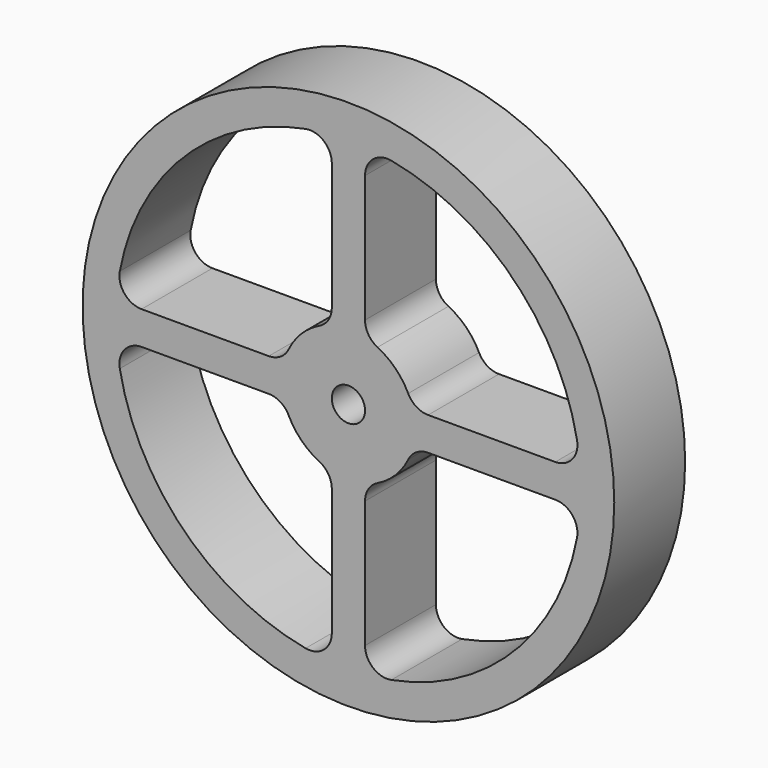
from build123d import *

# Parameters (mm, degrees)
F0_R     = 76.2
F0_R_2   = 4.7625
F1_DEPTH = 25.4
F2_R     = 6.35


with BuildPart() as f1:
    # F0 (on Front) → F1 (new body)
    with BuildSketch(Plane.XZ):
        Circle(F0_R)
        with BuildLine():
            ThreePointArc((66.504693, 4.7625), (66.63241, 2.382772), (66.675, 0))
            ThreePointArc((66.675, 0), (66.63241, -2.382772), (66.504693, -4.7625))
            ThreePointArc((66.504693, -4.7625), (47.146345, -47.146345), (4.7625, -66.504693))
            ThreePointArc((4.7625, -66.504693), (0, -66.675), (-4.7625, -66.504693))
            ThreePointArc((-4.7625, -66.504693), (-47.146345, -47.146345), (-66.504693, -4.7625))
            ThreePointArc((-66.504693, -4.7625), (-66.675, 0), (-66.504693, 4.7625))
            ThreePointArc((-66.504693, 4.7625), (-47.146345, 47.146345), (-4.7625, 66.504693))
            ThreePointArc((-4.7625, 66.504693), (0, 66.675), (4.7625, 66.504693))
            ThreePointArc((4.7625, 66.504693), (47.146345, 47.146345), (66.504693, 4.7625))
        make_face(mode=Mode.SUBTRACT)
        with BuildLine():
            Line((4.7625, 18.445083), (4.7625, 66.504693))
            ThreePointArc((4.7625, 66.504693), (0, 66.675), (-4.7625, 66.504693))
            Line((-4.7625, 66.504693), (-4.7625, 18.445083))
            ThreePointArc((-4.7625, 18.445083), (0, 19.05), (4.7625, 18.445083))
        make_face()
        with BuildLine():
            ThreePointArc((66.504693, -4.7625), (66.63241, -2.382772), (66.675, 0))
            ThreePointArc((66.675, 0), (66.63241, 2.382772), (66.504693, 4.7625))
            Line((66.504693, 4.7625), (18.445083, 4.7625))
            ThreePointArc((18.445083, 4.7625), (18.898166, 2.400382), (19.05, 0))
            ThreePointArc((19.05, 0), (18.898166, -2.400382), (18.445083, -4.7625))
            Line((18.445083, -4.7625), (66.504693, -4.7625))
        make_face()
        with BuildLine():
            ThreePointArc((19.05, 0), (18.898166, 2.400382), (18.445083, 4.7625))
            ThreePointArc((18.445083, 4.7625), (13.470384, 13.470384), (4.7625, 18.445083))
            ThreePointArc((4.7625, 18.445083), (0, 19.05), (-4.7625, 18.445083))
            ThreePointArc((-4.7625, 18.445083), (-13.470384, 13.470384), (-18.445083, 4.7625))
            ThreePointArc((-18.445083, 4.7625), (-19.05, 0), (-18.445083, -4.7625))
            ThreePointArc((-18.445083, -4.7625), (-13.470384, -13.470384), (-4.7625, -18.445083))
            ThreePointArc((-4.7625, -18.445083), (0, -19.05), (4.7625, -18.445083))
            ThreePointArc((4.7625, -18.445083), (13.470384, -13.470384), (18.445083, -4.7625))
            ThreePointArc((18.445083, -4.7625), (18.898166, -2.400382), (19.05, 0))
        make_face()
        Circle(F0_R_2, mode=Mode.SUBTRACT)
        with BuildLine():
            ThreePointArc((-4.7625, -66.504693), (0, -66.675), (4.7625, -66.504693))
            Line((4.7625, -66.504693), (4.7625, -18.445083))
            ThreePointArc((4.7625, -18.445083), (0, -19.05), (-4.7625, -18.445083))
            Line((-4.7625, -18.445083), (-4.7625, -66.504693))
        make_face()
        with BuildLine():
            Line((-18.445083, 4.7625), (-66.504693, 4.7625))
            ThreePointArc((-66.504693, 4.7625), (-66.675, 0), (-66.504693, -4.7625))
            Line((-66.504693, -4.7625), (-18.445083, -4.7625))
            ThreePointArc((-18.445083, -4.7625), (-19.05, 0), (-18.445083, 4.7625))
        make_face()
    extrude(amount=F1_DEPTH)

    # F2
    f2_edges = [f1.edges().sort_by_distance(p)[0] for p in [
        (4.7625, -12.7, 18.445083),
        (18.445083, -12.7, 4.7625),
        (-66.504693, -12.7, 4.7625),
        (4.7625, -12.7, -66.504693),
        (-18.445083, -12.7, 4.7625),
        (-4.7625, -12.7, 18.445083),
        (-4.7625, -12.7, -66.504693),
        (66.504693, -12.7, 4.7625),
        (18.445083, -12.7, -4.7625),
        (4.7625, -12.7, -18.445083),
        (4.7625, -12.7, 66.504693),
        (-66.504693, -12.7, -4.7625),
        (-4.7625, -12.7, -18.445083),
        (-18.445083, -12.7, -4.7625),
        (-4.7625, -12.7, 66.504693),
        (66.504693, -12.7, -4.7625),
    ]]
    fillet(f2_edges, radius=F2_R)


solid = f1.part
